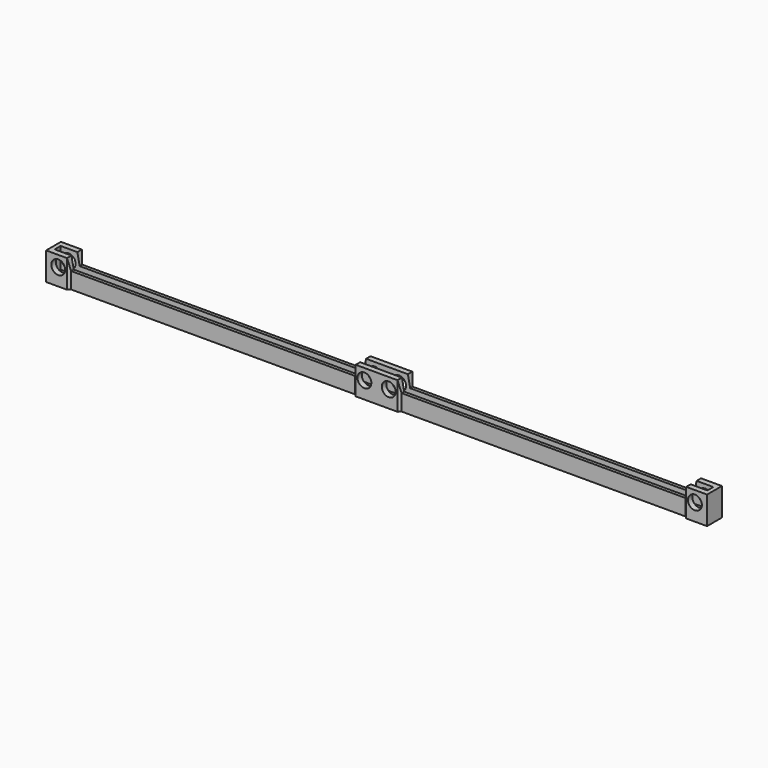
from build123d import *

# Parameters (mm, degrees)
PAD_DEPTH       = 6
SKETCH001_W     = 140.7
SKETCH001_H     = 1.6
POCKET_DEPTH    = 4.5
SKETCH002_R     = 1.5
POCKET001_DEPTH = 4.001


with BuildPart() as part:
    # Sketch → Pad (new body)
    with BuildSketch(Plane.XY):
        Polygon((-71.25, 2), (-71.25, -2), (-66.75, -2), (-66.25, -1.5), (-5, -1.5), (-4.5, -2), (4.5, -2), (5, -1.5), (66.25, -1.5), (66.75, -2), (71.25, -2), (71.25, 2), (66.75, 2), (66.25, 1.5), (5, 1.5), (4.5, 2), (-4.5, 2), (-5, 1.5), (-66.25, 1.5), (-66.75, 2), align=None)
    extrude(amount=PAD_DEPTH)

    # Sketch001 (on Face22 of Pad) → Pocket (cut)
    with BuildSketch(Plane.XY.offset(6)):
        Rectangle(SKETCH001_W, SKETCH001_H)
    extrude(amount=-POCKET_DEPTH, mode=Mode.SUBTRACT)

    # Sketch002 (on Face10 of Pocket) → Pocket001 (cut, through all)
    with BuildSketch(Plane.XZ.offset(2)):
        with Locations((-68.625, 3.65)):
            Circle(SKETCH002_R)
        with Locations((-2.625, 3.65)):
            Circle(SKETCH002_R)
        with Locations((2.625, 3.65)):
            Circle(SKETCH002_R)
        with Locations((68.625, 3.65)):
            Circle(SKETCH002_R)
        Polygon((-66.75, 6), (-66.25, 3.5), (-5, 3.5), (-4.5, 6), align=None)
        Polygon((4.5, 6), (5, 3.5), (66.25, 3.5), (66.75, 6), align=None)
    extrude(amount=-POCKET001_DEPTH, mode=Mode.SUBTRACT)


solid = part.part
